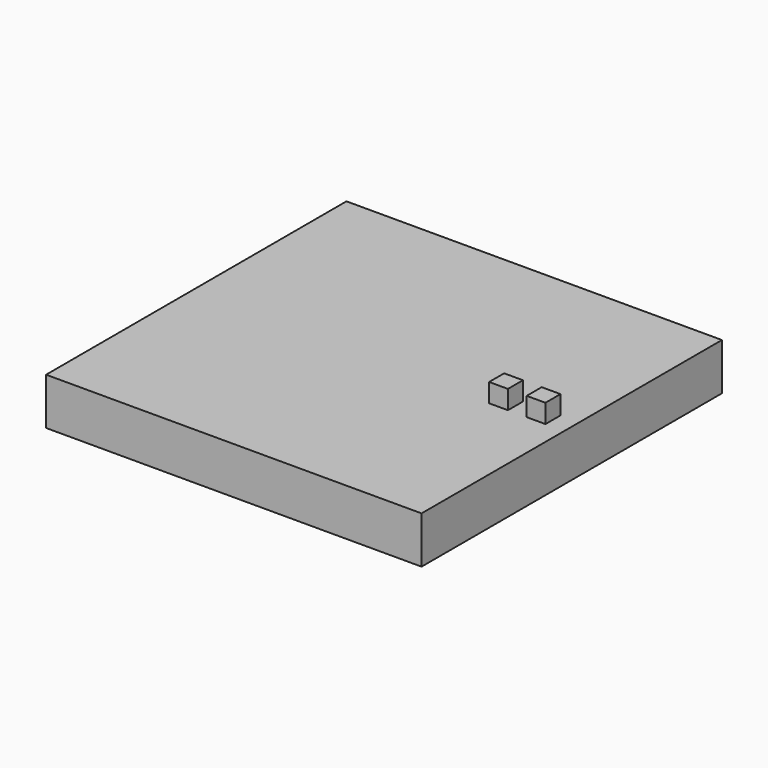
from build123d import *

# Parameters (mm, degrees)
F0_W     = 80
F0_H     = 80
F1_DEPTH = 10
F2_W     = 4
F2_H     = 4
F3_DEPTH = 2


with BuildPart() as f1:
    # F0 (on Top) → F1 (new body)
    with BuildSketch(Plane.XY):
        Rectangle(F0_W, F0_H)
    extrude(amount=F1_DEPTH)

    # F2 (on Front) → F3 (join, symmetric)
    with BuildSketch(Plane.XZ):
        with Locations((26, 12)):
            Rectangle(F2_W, F2_H)
        with Locations((34, 12)):
            Rectangle(F2_W, F2_H)
    extrude(amount=F3_DEPTH, both=True)


solid = f1.part
